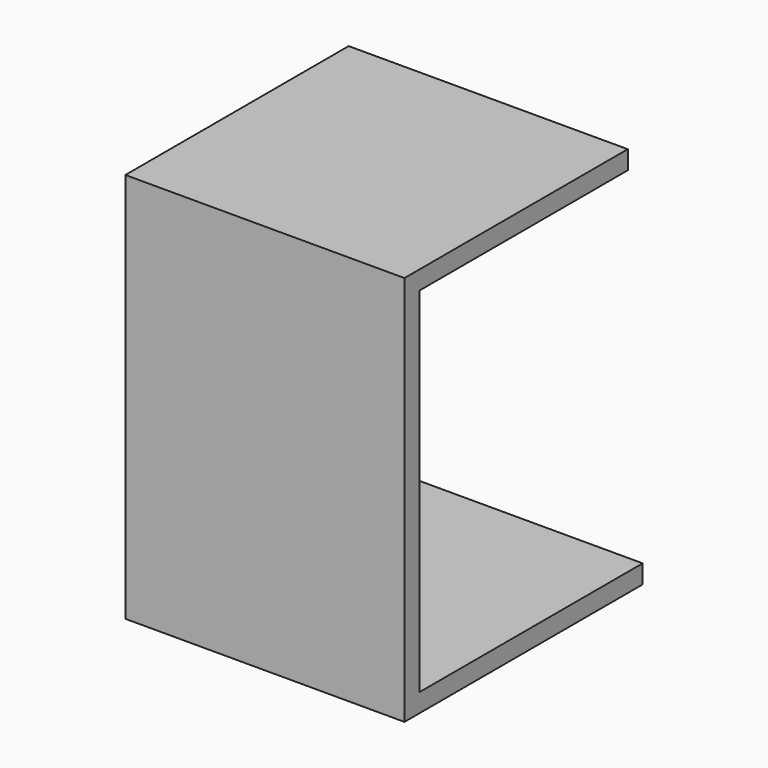
from build123d import *

# Parameters (mm, degrees)
F0_W     = 381
F0_H     = 381
F1_DEPTH = 25.4
F2_W     = 25.4
F2_H     = 508
F3_DEPTH = 381
F4_W     = 381
F4_H     = 355.6
F4_H_2   = 25.4
F5_DEPTH = 25.4


with BuildPart() as f1:
    # F0 (on Top) → F1 (new body)
    with BuildSketch(Plane.XY):
        with Locations((190.5, 190.5)):
            Rectangle(F0_W, F0_H)
    extrude(amount=F1_DEPTH)

    # F2 (on Right) → F3 (join)
    with BuildSketch(Plane.YZ):
        with Locations((-12.7, 254)):
            Rectangle(F2_W, F2_H)
    extrude(amount=F3_DEPTH)

    # F4 (on face) → F5 (join)
    with BuildSketch(Plane.XY.offset(508)):
        with Locations((190.5, 177.8)):
            Rectangle(F4_W, F4_H)
        with Locations((190.5, -12.7)):
            Rectangle(F4_W, F4_H_2)
    extrude(amount=F5_DEPTH)


solid = f1.part
